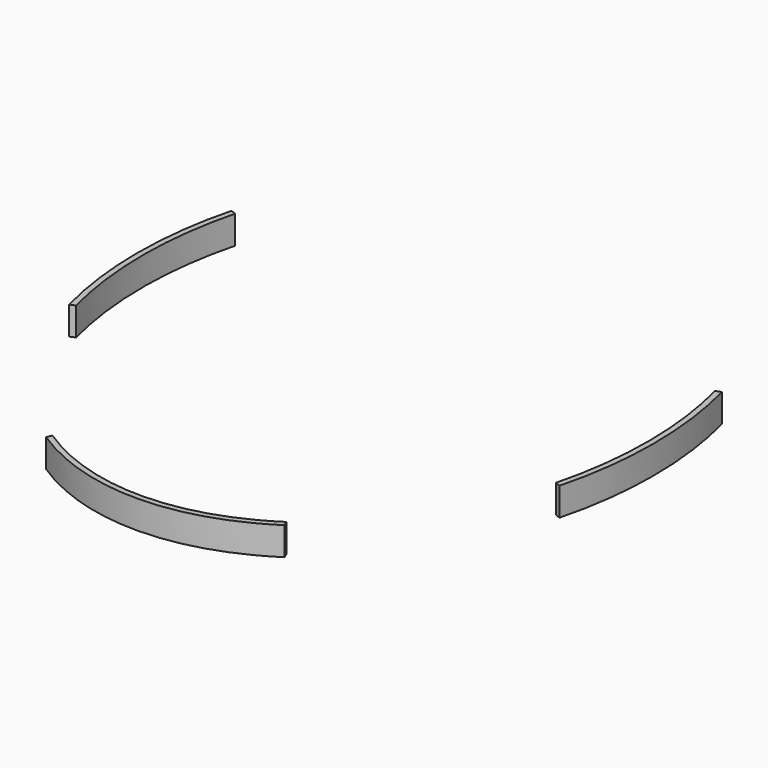
from build123d import *

# Parameters (mm, degrees)
F1_DEPTH = 10
F3_DEPTH = 10


with BuildPart() as f1:
    # F0 (on Top) → F1 (new body)
    with BuildSketch(Plane.XY):
        with BuildLine():
            Line((-85.0404330334, 35.2249007125), (-86.9021372912, 35.9960438652))
            add(Edge.make_bspline(
                [(-86.9021372912, 35.9960438652), (-91.5, 18.4618753098), (-91.5, 0)],
                knots=[1.2524366586, 1.2524366586, 1.2524366586, 1.5707963268, 1.5707963268, 1.5707963268], degree=2, weights=[1, 0.9873576187, 1]))
            Line((-91.5, 0), (-89.5, 0))
            add(Edge.make_bspline(
                [(-85.0404330334, 35.2249007125), (-89.5, 18.0624544066), (-89.5, 0)],
                knots=[1.2537885998, 1.2537885998, 1.2537885998, 1.5707963268, 1.5707963268, 1.5707963268], degree=2, weights=[1, 0.9874645402, 1]))
        make_face()
        with BuildLine():
            Line((-89.5, 0), (-91.5, 0))
            add(Edge.make_bspline(
                [(-91.5, 0), (-91.5, -18.4618753098), (-86.9021372912, -35.9960438652)],
                knots=[1.5707963268, 1.5707963268, 1.5707963268, 1.889155995, 1.889155995, 1.889155995], degree=2, weights=[1, 0.9873576187, 1]))
            Line((-86.9021372912, -35.9960438652), (-85.0404330334, -35.2249007125))
            add(Edge.make_bspline(
                [(-89.5, 0), (-89.5, -18.0624544066), (-85.0404330334, -35.2249007125)],
                knots=[1.5707963268, 1.5707963268, 1.5707963268, 1.8878040538, 1.8878040538, 1.8878040538], degree=2, weights=[1, 0.9874645402, 1]))
        make_face()
    extrude(amount=F1_DEPTH)


with BuildPart() as f2_1:
    # F2: instance of F1
    add(f1.part.mirror(Plane.YZ))


with BuildPart() as f3:
    # F0 (on Top) → F3 (new body)
    with BuildSketch(Plane.XY):
        with BuildLine():
            add(Edge.make_bspline(
                [(-42.2518646165, -102.0050245927), (0, -129.6504760702), (42.2518646165, -102.0050245927)],
                knots=[2.6616041117, 2.6616041117, 2.6616041117, 3.6215811955, 3.6215811955, 3.6215811955], degree=2, weights=[1, 0.8870002138, 1]))
            Line((42.2518646165, -102.0050245927), (41.4765912171, -100.1333490373))
            add(Edge.make_bspline(
                [(-41.4765912171, -100.1333490373), (0, -127.5199533699), (41.4765912171, -100.1333490373)],
                knots=[2.6597355721, 2.6597355721, 2.6597355721, 3.6234497351, 3.6234497351, 3.6234497351], degree=2, weights=[1, 0.8861358322, 1]))
            Line((-41.4765912171, -100.1333490373), (-42.2518646165, -102.0050245927))
        make_face()
    extrude(amount=F3_DEPTH)


solid = Compound([f1.part, f2_1.part, f3.part])
